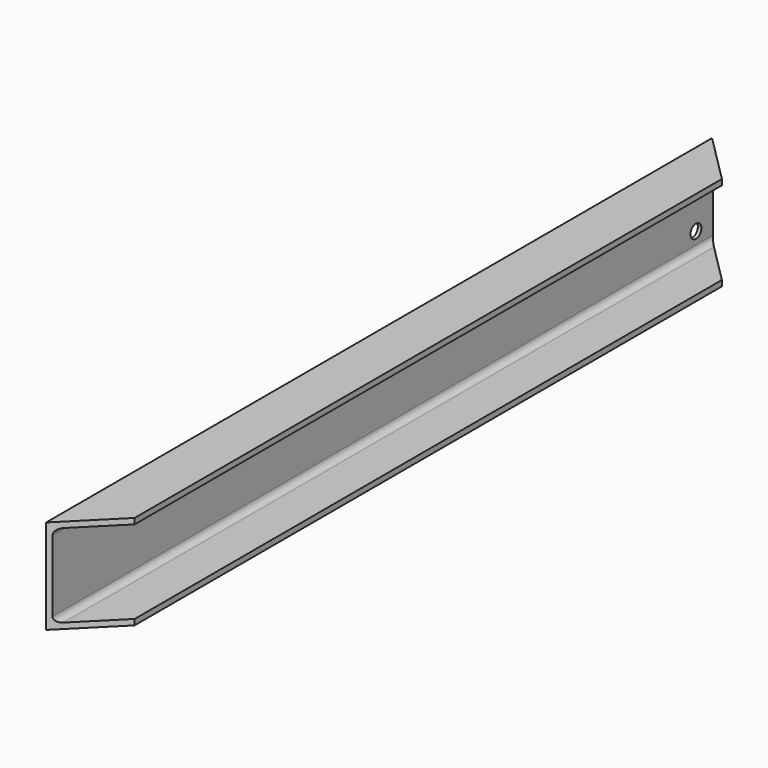
from build123d import *

# Parameters (mm, degrees)
F1_DEPTH = 1100
F3_DEPTH = 125.001
F4_R     = 9
F5_DEPTH = 65.001


with BuildPart() as f1:
    # F0 (on Front) → F1 (new body)
    with BuildSketch(Plane.XZ):
        with BuildLine():
            Line((-25.076735, 63.545803), (-25.076735, -61.454197))
            Line((-25.076735, -61.454197), (39.923265, -61.454197))
            Line((39.923265, -61.454197), (39.923265, -53.954197))
            Line((39.923265, -53.954197), (-12.376735, -53.954197))
            ThreePointArc((-12.376735, -53.954197), (-18.033589, -51.611052), (-20.376735, -45.954197))
            Line((-20.376735, -45.954197), (-20.376735, 48.045803))
            ThreePointArc((-20.376735, 48.045803), (-18.033589, 53.702657), (-12.376735, 56.045803))
            Line((-12.376735, 56.045803), (39.923265, 56.045803))
            Line((39.923265, 56.045803), (39.923265, 63.545803))
            Line((39.923265, 63.545803), (-25.076735, 63.545803))
        make_face()
    extrude(amount=F1_DEPTH)

    # F2 (on face) → F3 (cut, through all)
    with BuildSketch(Plane.XY.offset(63.545803)):
        Polygon((-25.076735, 0), (39.923265, -65), (39.923265, 0), align=None)
        Polygon((-25.076735, -1100), (39.923265, -1100), (39.923265, -1035), align=None)
    extrude(amount=-F3_DEPTH, mode=Mode.SUBTRACT)

    # F4 (on face) → F5 (cut, through all)
    with BuildSketch(Plane(origin=(-25.076735, 0, 0), x_dir=(0, -1, 0), z_dir=(-1, 0, 0))):
        with Locations((32.5, 30)):
            Circle(F4_R)
        with Locations((32.5, -30)):
            Circle(F4_R)
    extrude(amount=-F5_DEPTH, mode=Mode.SUBTRACT)


solid = f1.part
